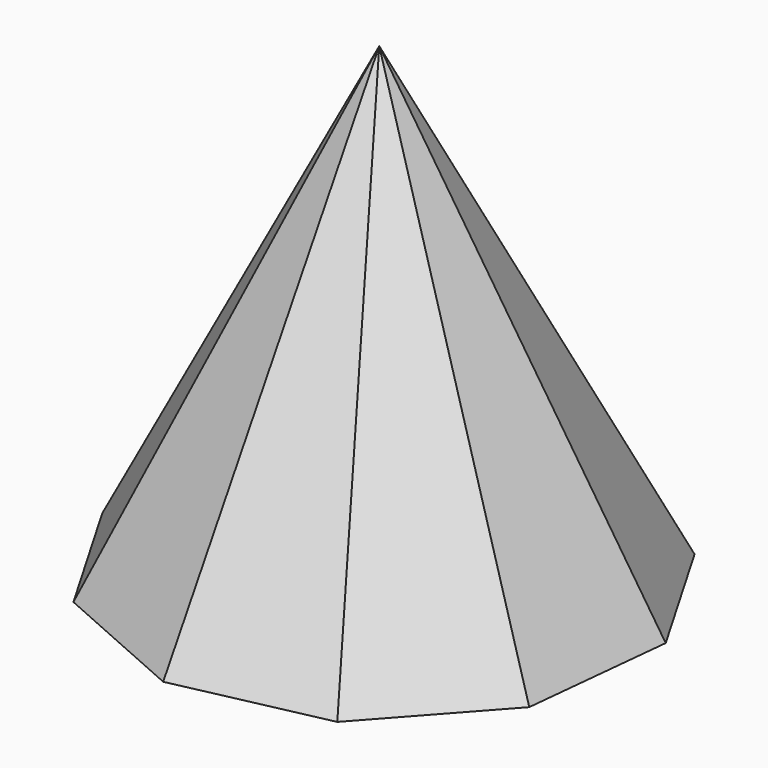
from build123d import *


with BuildPart() as f3:
    # F0 (on Top) → F3 section 0
    with BuildSketch(Plane.XY, mode=Mode.PRIVATE) as f3_s0:
        Polygon((13.699032, 133.246349), (-67.237489, 115.85065), (-122.491575, 54.20394), (-130.958042, -28.146832), (-89.402989, -99.746472), (-13.699032, -133.246349), (67.237489, -115.85065), (122.491575, -54.20394), (130.958042, 28.146832), (89.402989, 99.746472), align=None)
    loft([Vertex(-2.990126, 0.499404, 254), f3_s0.sketch])


solid = f3.part
